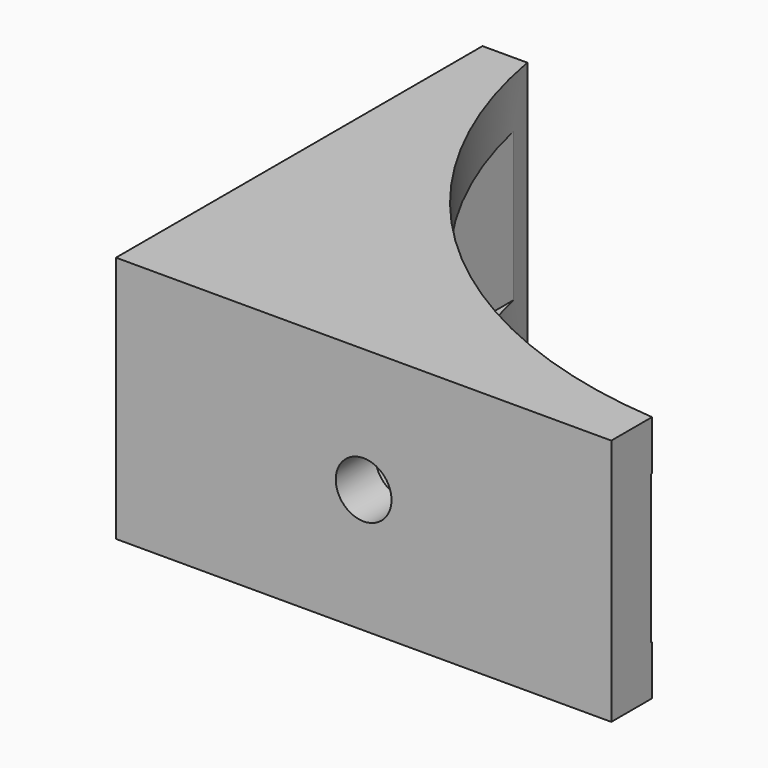
from build123d import *

# Parameters (mm, degrees)
CYLINDER001_R     = 40
CYLINDER001_DEPTH = 20
CYLINDER002_R     = 2.25
CYLINDER002_DEPTH = 20
ARRAY002_COUNT    = 2
ARRAY002_ANGLE    = 90
BOX002_W          = 40
BOX002_H          = 37
BOX002_DEPTH      = 12
BOX001_W          = 40
BOX001_H          = 37
BOX001_DEPTH      = 20


with BuildPart() as cylinder001:
    # Cylinder001 → Cylinder001 (new body)
    with BuildSketch(Plane(origin=(43, 47, 0), x_dir=(1, 0, 0), z_dir=(0, 0, 1))):
        Circle(CYLINDER001_R)
    extrude(amount=CYLINDER001_DEPTH)


with BuildPart() as array002:
    # Cylinder002 → Cylinder002 (new body)
    with BuildSketch(Plane(origin=(20, 10, 10), x_dir=(1, 0, 0), z_dir=(0, -1, 0))):
        Circle(CYLINDER002_R)
    extrude(amount=CYLINDER002_DEPTH)

    # Array002: Array002 ×2 about axis
    array002_axis = Axis((0, 0, 0), (0, 0, 1))


with BuildPart() as array002_1:
    add(array002.part)
    for i in range(1, ARRAY002_COUNT):
        add(array002.part.rotate(array002_axis, i * ARRAY002_ANGLE / (ARRAY002_COUNT - 1)))


with BuildPart() as fusion:
    # Box002 → Box002 (new body)
    with BuildSketch(Plane(origin=(4, 7, 4), x_dir=(1, 0, 0), z_dir=(0, 0, 1))):
        with Locations((20, 18.5)):
            Rectangle(BOX002_W, BOX002_H)
    extrude(amount=BOX002_DEPTH)

    # Fusion: union Cylinder001, Array002
    add(cylinder001.part)
    add(array002_1.part)


with BuildPart() as cut001:
    # Box001 → Box001 (new body)
    with BuildSketch(Plane(origin=(0, 3, 0), x_dir=(1, 0, 0), z_dir=(0, 0, 1))):
        with Locations((20, 18.5)):
            Rectangle(BOX001_W, BOX001_H)
    extrude(amount=BOX001_DEPTH)

    # Cut001: cut Fusion
    add(fusion.part, mode=Mode.SUBTRACT)


solid = cut001.part
